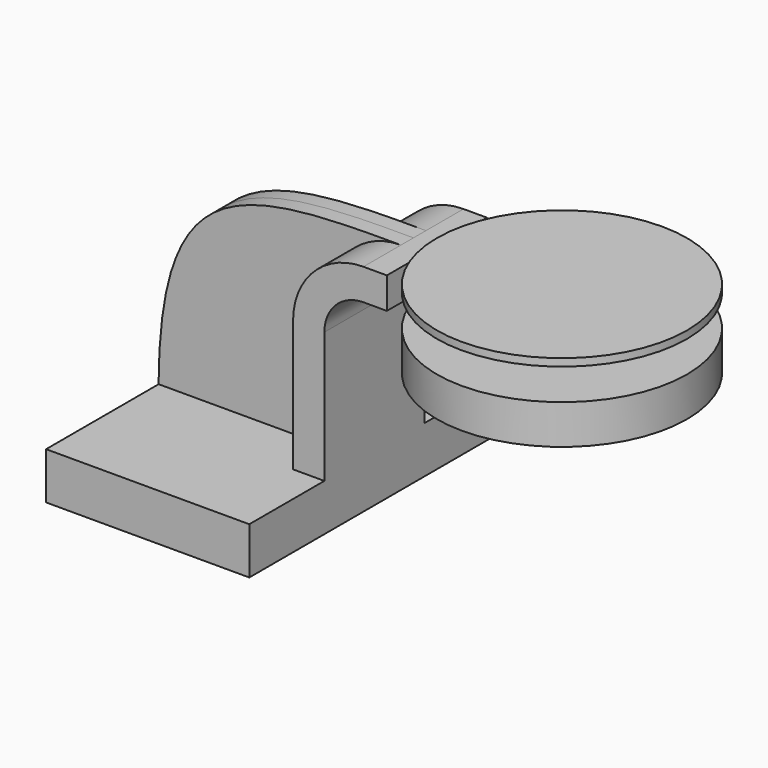
from build123d import *

# Parameters (mm, degrees)
F1_DEPTH = 63.5
F2_DEPTH = 25.4
F3_DEPTH = 6.35


with BuildPart() as f1:
    # F0 (on Front) → F1 (new body, symmetric)
    with BuildSketch(Plane.XZ):
        Polygon((-83.575267, -38.855243), (-83.575267, -57.905243), (-1.025267, -57.905243), (-1.025267, -38.855243), (-13.725268, -38.855243), align=None)
    extrude(amount=F1_DEPTH, both=True)

    # F0 (on Front) → F2 (join, symmetric)
    with BuildSketch(Plane.XZ):
        with BuildLine():
            Line((-13.725268, -38.855243), (-1.025267, -38.855243))
            Line((-1.025267, -38.855243), (-1.025267, 14.326012))
            ThreePointArc((-1.025267, 14.326012), (3.624413, 25.551333), (14.849733, 30.201012))
            Line((14.849733, 30.201012), (24.374733, 30.201012))
            Line((24.374733, 30.201012), (24.374733, 42.901013))
            Line((24.374733, 42.901013), (14.849733, 42.901013))
            ThreePointArc((14.849733, 42.901013), (-5.355844, 34.531589), (-13.725268, 14.326012))
            Line((-13.725268, 14.326012), (-13.725268, -38.855243))
        make_face()
    extrude(amount=F2_DEPTH, both=True)

    # F0 (on Front) → F3 (join, symmetric)
    with BuildSketch(Plane.XZ):
        with BuildLine():
            add(Edge.make_bspline(
                [(14.849733, 42.901013), (-50.447308, 43.177892), (-83.148681, 39.544407), (-83.575267, -38.855243)],
                knots=[0, 0, 0, 0, 127.951421, 127.951421, 127.951421, 127.951421], degree=3))
            Line((-83.575267, -38.855243), (-13.725268, -38.855243))
            Line((-13.725268, -38.855243), (-13.725268, 14.326012))
            ThreePointArc((-13.725268, 14.326012), (-5.355844, 34.531589), (14.849733, 42.901013))
        make_face()
    extrude(amount=F3_DEPTH, both=True)


with BuildPart() as f4:
    # F0 (on Front) → F4 (revolve)
    with BuildSketch(Plane.XZ):
        Polygon((24.374733, 45.939848), (24.374733, 42.901013), (54.22392, 42.901013), (54.22392, 30.201012), (24.374733, 30.201012), (24.374733, 14.189848), (75.174733, 14.189848), (75.174733, 45.939848), align=None)
    revolve(axis=Axis((75.174733, 0, 30.064848), (0, 0, 1)))


solid = Compound([f1.part, f4.part])
